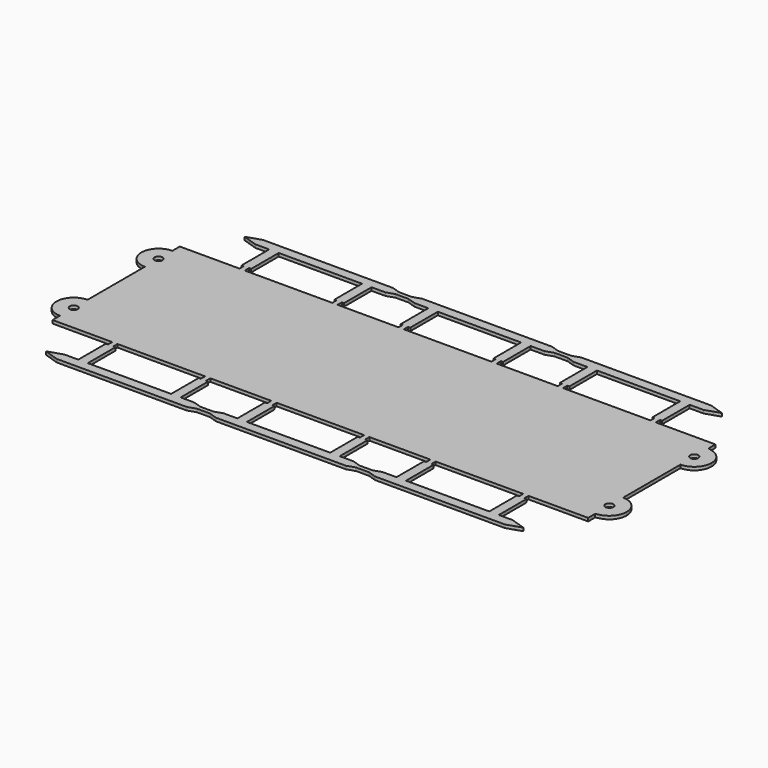
from build123d import *

# Parameters (mm, degrees)
F0_W     = 7.112
F0_H     = 2.032
F0_W_2   = 2.032
F0_H_2   = 7.112
F0_R     = 1.905
F0_W_3   = 1.524
F0_H_3   = 6.604
F0_W_4   = 6.604
F0_H_4   = 1.524
F0_W_5   = 2.54
F0_H_5   = 2.54
F1_DEPTH = 1.524


with BuildPart() as f1:
    # F0 (on Top) → F1 (new body)
    with BuildSketch(Plane.XY):
        Polygon((38.1, -38.1), (38.1, 38.1), (23.495, 38.1), (20.955, 38.1), (-20.955, 38.1), (-23.495, 38.1), (-38.1, 38.1), (-38.1, -38.1), (-23.495, -38.1), (-20.955, -38.1), (20.955, -38.1), (23.495, -38.1), align=None)
        with Locations((-15.875, -30.988)):
            Rectangle(F0_W, F0_H, mode=Mode.SUBTRACT)
        with Locations((15.875, -30.988)):
            Rectangle(F0_W, F0_H, mode=Mode.SUBTRACT)
        with Locations((-30.988, -15.875)):
            Rectangle(F0_W_2, F0_H_2, mode=Mode.SUBTRACT)
        with Locations((-25.4, -25.4)):
            Circle(F0_R, mode=Mode.SUBTRACT)
        with Locations((25.4, -25.4)):
            Circle(F0_R, mode=Mode.SUBTRACT)
        with Locations((30.988, -15.875)):
            Rectangle(F0_W_2, F0_H_2, mode=Mode.SUBTRACT)
        with Locations((-30.988, 15.875)):
            Rectangle(F0_W_2, F0_H_2, mode=Mode.SUBTRACT)
        with Locations((-25.4, 25.4)):
            Circle(F0_R, mode=Mode.SUBTRACT)
        with Locations((30.988, 15.875)):
            Rectangle(F0_W_2, F0_H_2, mode=Mode.SUBTRACT)
        with Locations((25.4, 25.4)):
            Circle(F0_R, mode=Mode.SUBTRACT)
        with Locations((-15.875, 30.988)):
            Rectangle(F0_W, F0_H, mode=Mode.SUBTRACT)
        with Locations((15.875, 30.988)):
            Rectangle(F0_W, F0_H, mode=Mode.SUBTRACT)
        Polygon((52.705, 38.1), (38.1, 38.1), (38.1, -38.1), (52.705, -38.1), (55.245, -38.1), (97.155, -38.1), (99.695, -38.1), (114.3, -38.1), (114.3, 38.1), (99.695, 38.1), (97.155, 38.1), (55.245, 38.1), align=None)
        with BuildLine():
            Line((128.27, 38.1), (128.27, 33.9902844763))
            Line((128.27, 33.9902844763), (130.1361090652, 33.4413097165))
            ThreePointArc((130.1361090652, 33.4413097165), (134.7333487966, 30.5351871761), (136.525, 25.4))
            ThreePointArc((136.525, 25.4), (134.1071664787, 19.5628335213), (128.27, 17.145))
            Line((128.27, 17.145), (128.27, -17.145))
            ThreePointArc((128.27, -17.145), (134.1071664787, -19.5628335213), (136.525, -25.4))
            ThreePointArc((136.525, -25.4), (134.7333487966, -30.5351871761), (130.1361090652, -33.4413097165))
            Line((130.1361090652, -33.4413097165), (128.27, -33.9902844763))
            Line((128.27, -33.9902844763), (128.27, -38.1))
            Line((128.27, -38.1), (128.905, -38.1))
            Line((128.905, -38.1), (131.445, -38.1))
            Line((131.445, -38.1), (173.355, -38.1))
            Line((173.355, -38.1), (175.895, -38.1))
            Line((175.895, -38.1), (190.5, -38.1))
            Line((190.5, -38.1), (190.5, 38.1))
            Line((190.5, 38.1), (175.895, 38.1))
            Line((175.895, 38.1), (173.355, 38.1))
            Line((173.355, 38.1), (131.445, 38.1))
            Line((131.445, 38.1), (128.905, 38.1))
            Line((128.905, 38.1), (128.27, 38.1))
        make_face()
        with BuildLine():
            Line((-38.1, -38.1), (-38.1, 38.1))
            Line((-38.1, 38.1), (-52.07, 33.9902844763))
            Line((-52.07, 33.9902844763), (-52.07, 33.655))
            ThreePointArc((-52.07, 33.655), (-46.2328335213, 31.2371664787), (-43.815, 25.4))
            ThreePointArc((-43.815, 25.4), (-46.2328335213, 19.5628335213), (-52.07, 17.145))
            Line((-52.07, 17.145), (-52.07, -17.145))
            ThreePointArc((-52.07, -17.145), (-46.2328335213, -19.5628335213), (-43.815, -25.4))
            ThreePointArc((-43.815, -25.4), (-46.2328335213, -31.2371664787), (-52.07, -33.655))
            Line((-52.07, -33.655), (-52.07, -33.9902844763))
            Line((-52.07, -33.9902844763), (-38.1, -38.1))
        make_face()
        with BuildLine():
            Line((128.27, 33.9902844763), (114.3, 38.1))
            Line((114.3, 38.1), (114.3, -38.1))
            Line((114.3, -38.1), (128.27, -33.9902844763))
            Line((128.27, -33.9902844763), (128.27, -33.655))
            ThreePointArc((128.27, -33.655), (120.015, -25.4), (128.27, -17.145))
            Line((128.27, -17.145), (128.27, 17.145))
            ThreePointArc((128.27, 17.145), (120.015, 25.4), (128.27, 33.655))
            Line((128.27, 33.655), (128.27, 33.9902844763))
        make_face()
        with BuildLine():
            Line((204.47, 33.9902844763), (190.5, 38.1))
            Line((190.5, 38.1), (190.5, -38.1))
            Line((190.5, -38.1), (204.47, -33.9902844763))
            Line((204.47, -33.9902844763), (204.47, -33.655))
            ThreePointArc((204.47, -33.655), (196.215, -25.4), (204.47, -17.145))
            Line((204.47, -17.145), (204.47, 17.145))
            ThreePointArc((204.47, 17.145), (196.215, 25.4), (204.47, 33.655))
            Line((204.47, 33.655), (204.47, 33.9902844763))
        make_face()
        with BuildLine():
            ThreePointArc((-52.07, 33.655), (-53.0091520884, 33.6014034381), (-53.9361090652, 33.4413097165))
            ThreePointArc((-53.9361090652, 33.4413097165), (-60.2714034381, 24.4608479116), (-52.07, 17.145))
            ThreePointArc((-52.07, 17.145), (-46.2328335213, 19.5628335213), (-43.815, 25.4))
            ThreePointArc((-43.815, 25.4), (-46.2328335213, 31.2371664787), (-52.07, 33.655))
        make_face()
        with Locations((-52.07, 25.4)):
            Circle(F0_R, mode=Mode.SUBTRACT)
        with BuildLine():
            ThreePointArc((-52.07, -17.145), (-60.2714034381, -24.4608479116), (-53.9361090652, -33.4413097165))
            ThreePointArc((-53.9361090652, -33.4413097165), (-53.0091520884, -33.6014034381), (-52.07, -33.655))
            ThreePointArc((-52.07, -33.655), (-46.2328335213, -31.2371664787), (-43.815, -25.4))
            ThreePointArc((-43.815, -25.4), (-46.2328335213, -19.5628335213), (-52.07, -17.145))
        make_face()
        with Locations((-52.07, -25.4)):
            Circle(F0_R, mode=Mode.SUBTRACT)
        with BuildLine():
            ThreePointArc((128.27, -33.655), (129.2091520884, -33.6014034381), (130.1361090652, -33.4413097165))
            ThreePointArc((130.1361090652, -33.4413097165), (134.7333487966, -30.5351871761), (136.525, -25.4))
            ThreePointArc((136.525, -25.4), (134.1071664787, -19.5628335213), (128.27, -17.145))
            ThreePointArc((128.27, -17.145), (120.015, -25.4), (128.27, -33.655))
        make_face()
        with Locations((128.27, -25.4)):
            Circle(F0_R, mode=Mode.SUBTRACT)
        with BuildLine():
            ThreePointArc((136.525, 25.4), (134.7333487966, 30.5351871761), (130.1361090652, 33.4413097165))
            ThreePointArc((130.1361090652, 33.4413097165), (129.2091520884, 33.6014034381), (128.27, 33.655))
            ThreePointArc((128.27, 33.655), (120.015, 25.4), (128.27, 17.145))
            ThreePointArc((128.27, 17.145), (134.1071664787, 19.5628335213), (136.525, 25.4))
        make_face()
        with Locations((128.27, 25.4)):
            Circle(F0_R, mode=Mode.SUBTRACT)
        with BuildLine():
            ThreePointArc((206.3361090652, 33.4413097165), (205.4091520884, 33.6014034381), (204.47, 33.655))
            ThreePointArc((204.47, 33.655), (196.215, 25.4), (204.47, 17.145))
            ThreePointArc((204.47, 17.145), (210.3071664787, 19.5628335213), (212.725, 25.4))
            ThreePointArc((212.725, 25.4), (210.9333487966, 30.5351871761), (206.3361090652, 33.4413097165))
        make_face()
        with Locations((204.47, 25.4)):
            Circle(F0_R, mode=Mode.SUBTRACT)
        with BuildLine():
            ThreePointArc((204.47, -17.145), (196.215, -25.4), (204.47, -33.655))
            ThreePointArc((204.47, -33.655), (205.4091520884, -33.6014034381), (206.3361090652, -33.4413097165))
            ThreePointArc((206.3361090652, -33.4413097165), (210.9333487966, -30.5351871761), (212.725, -25.4))
            ThreePointArc((212.725, -25.4), (210.3071664787, -19.5628335213), (204.47, -17.145))
        make_face()
        with Locations((204.47, -25.4)):
            Circle(F0_R, mode=Mode.SUBTRACT)
        Polygon((-34.9994692405, 58.42), (34.9994692405, 58.42), (38.1, 59.436), (34.9994692405, 60.452), (-34.9994692405, 60.452), (-38.1, 59.436), align=None)
        Polygon((38.1, 59.436), (41.2005307595, 58.42), (111.1994692405, 58.42), (114.3, 59.436), (111.1994692405, 60.452), (41.2005307595, 60.452), align=None)
        Polygon((117.4005307595, 60.452), (114.3, 59.436), (117.4005307595, 58.42), (187.3994692405, 58.42), (190.5, 59.436), (187.3994692405, 60.452), align=None)
        Polygon((45.0761942089, 57.15), (51.689, 57.15), (56.261, 57.15), (76.2, 57.15), (96.139, 57.15), (100.711, 57.15), (107.3238057911, 57.15), (111.1994692405, 58.42), (41.2005307595, 58.42), align=None)
        Polygon((19.939, 57.15), (24.511, 57.15), (31.1238057911, 57.15), (34.9994692405, 58.42), (-34.9994692405, 58.42), (-31.1238057911, 57.15), (-24.511, 57.15), (-19.939, 57.15), (0, 57.15), align=None)
        Polygon((45.0761942089, 61.722), (41.2005307595, 60.452), (111.1994692405, 60.452), (107.3238057911, 61.722), (76.2, 61.722), align=None)
        Polygon((-34.9994692405, 60.452), (34.9994692405, 60.452), (31.1238057911, 61.722), (0, 61.722), (-31.1238057911, 61.722), align=None)
        Polygon((111.1994692405, -60.452), (41.2005307595, -60.452), (45.0761942089, -61.722), (76.2, -61.722), (107.3238057911, -61.722), align=None)
        Polygon((56.261, -57.15), (51.689, -57.15), (45.0761942089, -57.15), (41.2005307595, -58.42), (111.1994692405, -58.42), (107.3238057911, -57.15), (100.711, -57.15), (96.139, -57.15), (76.2, -57.15), align=None)
        Polygon((31.1238057911, -57.15), (24.511, -57.15), (19.939, -57.15), (0, -57.15), (-19.939, -57.15), (-24.511, -57.15), (-31.1238057911, -57.15), (-34.9994692405, -58.42), (34.9994692405, -58.42), align=None)
        Polygon((31.1238057911, -61.722), (34.9994692405, -60.452), (-34.9994692405, -60.452), (-31.1238057911, -61.722), (0, -61.722), align=None)
        Polygon((187.3994692405, 58.42), (117.4005307595, 58.42), (121.2761942089, 57.15), (127.889, 57.15), (132.461, 57.15), (152.4, 57.15), (172.339, 57.15), (176.911, 57.15), (183.5238057911, 57.15), align=None)
        Polygon((121.2761942089, -57.15), (117.4005307595, -58.42), (187.3994692405, -58.42), (183.5238057911, -57.15), (176.911, -57.15), (172.339, -57.15), (152.4, -57.15), (132.461, -57.15), (127.889, -57.15), align=None)
        Polygon((121.2761942089, 61.722), (117.4005307595, 60.452), (187.3994692405, 60.452), (183.5238057911, 61.722), (152.4, 61.722), align=None)
        Polygon((187.3994692405, -60.452), (117.4005307595, -60.452), (121.2761942089, -61.722), (152.4, -61.722), (183.5238057911, -61.722), align=None)
        Polygon((-23.495, 40.64), (-20.955, 40.64), (-19.939, 40.64), (-19.939, 57.15), (-24.511, 57.15), (-24.511, 40.64), align=None)
        Polygon((20.955, 40.64), (23.495, 40.64), (24.511, 40.64), (24.511, 57.15), (19.939, 57.15), (19.939, 40.64), align=None)
        Polygon((51.689, 40.64), (52.705, 40.64), (55.245, 40.64), (56.261, 40.64), (56.261, 57.15), (51.689, 57.15), align=None)
        Polygon((96.139, 40.64), (97.155, 40.64), (99.695, 40.64), (100.711, 40.64), (100.711, 57.15), (96.139, 57.15), align=None)
        Polygon((99.695, -40.64), (97.155, -40.64), (96.139, -40.64), (96.139, -57.15), (100.711, -57.15), (100.711, -40.64), align=None)
        Polygon((55.245, -40.64), (52.705, -40.64), (51.689, -40.64), (51.689, -57.15), (56.261, -57.15), (56.261, -40.64), align=None)
        Polygon((24.511, -40.64), (23.495, -40.64), (20.955, -40.64), (19.939, -40.64), (19.939, -57.15), (24.511, -57.15), align=None)
        Polygon((-19.939, -40.64), (-20.955, -40.64), (-23.495, -40.64), (-24.511, -40.64), (-24.511, -57.15), (-19.939, -57.15), align=None)
        Polygon((172.339, 40.64), (173.355, 40.64), (175.895, 40.64), (176.911, 40.64), (176.911, 57.15), (172.339, 57.15), align=None)
        Polygon((131.445, -40.64), (128.905, -40.64), (127.889, -40.64), (127.889, -57.15), (132.461, -57.15), (132.461, -40.64), align=None)
        Polygon((175.895, -40.64), (173.355, -40.64), (172.339, -40.64), (172.339, -57.15), (176.911, -57.15), (176.911, -40.64), align=None)
        Polygon((127.889, 40.64), (128.905, 40.64), (131.445, 40.64), (132.461, 40.64), (132.461, 57.15), (127.889, 57.15), align=None)
        Polygon((111.1994692405, -58.42), (41.2005307595, -58.42), (38.1, -59.436), (114.3, -59.436), align=None)
        Polygon((114.3, -59.436), (38.1, -59.436), (41.2005307595, -60.452), (111.1994692405, -60.452), align=None)
        Polygon((38.1, -59.436), (34.9994692405, -58.42), (-34.9994692405, -58.42), (-38.1, -59.436), align=None)
        Polygon((34.9994692405, -60.452), (38.1, -59.436), (-38.1, -59.436), (-34.9994692405, -60.452), align=None)
        Polygon((117.4005307595, -58.42), (114.3, -59.436), (190.5, -59.436), (187.3994692405, -58.42), align=None)
        Polygon((190.5, -59.436), (114.3, -59.436), (117.4005307595, -60.452), (187.3994692405, -60.452), align=None)
        Polygon((-52.07, 33.9902844763), (-38.1, 38.1), (-52.07, 38.1), align=None)
        Polygon((-52.07, -38.1), (-38.1, -38.1), (-52.07, -33.9902844763), align=None)
        Polygon((128.27, 38.1), (114.3, 38.1), (128.27, 33.9902844763), align=None)
        Polygon((128.27, -33.9902844763), (114.3, -38.1), (128.27, -38.1), align=None)
        Polygon((204.47, -33.9902844763), (190.5, -38.1), (204.47, -38.1), align=None)
        Polygon((204.47, 38.1), (190.5, 38.1), (204.47, 33.9902844763), align=None)
        with Locations((-30.988, -15.875)):
            Rectangle(F0_W_2, F0_H_2)
        with Locations((-30.988, -15.875)):
            Rectangle(F0_W_3, F0_H_3, mode=Mode.SUBTRACT)
        with Locations((-15.875, -30.988)):
            Rectangle(F0_W, F0_H)
        with Locations((-15.875, -30.988)):
            Rectangle(F0_W_4, F0_H_4, mode=Mode.SUBTRACT)
        with Locations((15.875, 30.988)):
            Rectangle(F0_W, F0_H)
        with Locations((15.875, -30.988)):
            Rectangle(F0_W, F0_H)
        with Locations((-15.875, 30.988)):
            Rectangle(F0_W, F0_H)
        with Locations((-30.988, 15.875)):
            Rectangle(F0_W_2, F0_H_2)
        with Locations((30.988, -15.875)):
            Rectangle(F0_W_2, F0_H_2)
        with Locations((30.988, 15.875)):
            Rectangle(F0_W_2, F0_H_2)
        with Locations((-25.4, 25.4)):
            Circle(F0_R)
        with Locations((25.4, 25.4)):
            Circle(F0_R)
        with Locations((-25.4, -25.4)):
            Circle(F0_R)
        with Locations((25.4, -25.4)):
            Circle(F0_R)
        with Locations((128.27, -25.4)):
            Circle(F0_R)
        with Locations((128.27, 25.4)):
            Circle(F0_R)
        with Locations((-15.875, -30.988)):
            Rectangle(F0_W_4, F0_H_4)
        with Locations((-30.988, -15.875)):
            Rectangle(F0_W_3, F0_H_3)
        with Locations((-22.225, 39.37)):
            Rectangle(F0_W_5, F0_H_5)
        with Locations((98.425, 39.37)):
            Rectangle(F0_W_5, F0_H_5)
        with Locations((22.225, 39.37)):
            Rectangle(F0_W_5, F0_H_5)
        with Locations((53.975, 39.37)):
            Rectangle(F0_W_5, F0_H_5)
        with Locations((98.425, -39.37)):
            Rectangle(F0_W_5, F0_H_5)
        with Locations((53.975, -39.37)):
            Rectangle(F0_W_5, F0_H_5)
        with Locations((-22.225, -39.37)):
            Rectangle(F0_W_5, F0_H_5)
        with Locations((22.225, -39.37)):
            Rectangle(F0_W_5, F0_H_5)
        with Locations((174.625, -39.37)):
            Rectangle(F0_W_5, F0_H_5)
        with Locations((174.625, 39.37)):
            Rectangle(F0_W_5, F0_H_5)
        with Locations((130.175, -39.37)):
            Rectangle(F0_W_5, F0_H_5)
        with Locations((130.175, 39.37)):
            Rectangle(F0_W_5, F0_H_5)
        Polygon((34.9994692405, 60.452), (38.1, 59.436), (41.2005307595, 60.452), (38.1, 60.452), align=None)
        Polygon((38.1, 59.436), (34.9994692405, 58.42), (38.1, 58.42), (41.2005307595, 58.42), align=None)
        Polygon((38.1, -58.42), (34.9994692405, -58.42), (38.1, -59.436), (41.2005307595, -58.42), align=None)
        Polygon((41.2005307595, -60.452), (38.1, -59.436), (34.9994692405, -60.452), (38.1, -60.452), align=None)
        Polygon((114.3, -58.42), (111.1994692405, -58.42), (114.3, -59.436), (117.4005307595, -58.42), align=None)
        Polygon((117.4005307595, -60.452), (114.3, -59.436), (111.1994692405, -60.452), (114.3, -60.452), align=None)
        Polygon((111.1994692405, 60.452), (114.3, 59.436), (117.4005307595, 60.452), (114.3, 60.452), align=None)
        Polygon((114.3, 59.436), (111.1994692405, 58.42), (114.3, 58.42), (117.4005307595, 58.42), align=None)
        with BuildLine():
            Line((130.1361090652, 33.4413097165), (128.27, 33.9902844763))
            Line((128.27, 33.9902844763), (128.27, 33.655))
            ThreePointArc((128.27, 33.655), (129.2091520884, 33.6014034381), (130.1361090652, 33.4413097165))
        make_face()
        with BuildLine():
            Line((204.47, -33.655), (204.47, -33.9902844763))
            Line((204.47, -33.9902844763), (206.3361090652, -33.4413097165))
            ThreePointArc((206.3361090652, -33.4413097165), (205.4091520884, -33.6014034381), (204.47, -33.655))
        make_face()
        with BuildLine():
            Line((206.3361090652, 33.4413097165), (204.47, 33.9902844763))
            Line((204.47, 33.9902844763), (204.47, 33.655))
            ThreePointArc((204.47, 33.655), (205.4091520884, 33.6014034381), (206.3361090652, 33.4413097165))
        make_face()
        with BuildLine():
            Line((128.27, -33.655), (128.27, -33.9902844763))
            Line((128.27, -33.9902844763), (130.1361090652, -33.4413097165))
            ThreePointArc((130.1361090652, -33.4413097165), (129.2091520884, -33.6014034381), (128.27, -33.655))
        make_face()
    extrude(amount=F1_DEPTH)


solid = f1.part
